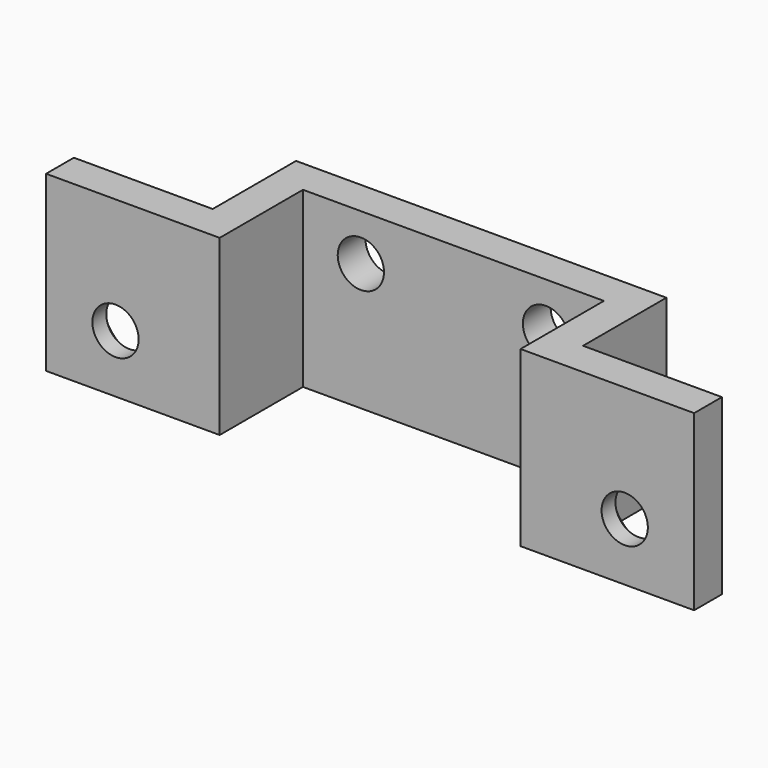
from build123d import *

# Parameters (mm, degrees)
F1_DEPTH       = 15
F2_R           = 2
F3_DEPTH       = 25
F5_D           = 4
F5_CSINK_D     = 7
F5_CSINK_ANGLE = 90


with BuildPart() as f1:
    # F0 (on Top) → F1 (new body)
    with BuildSketch(Plane.XY):
        Polygon((0, 3), (0, 0), (15, 0), (15, 9), (41, 9), (41, 0), (56, 0), (56, 3), (44, 3), (44, 12), (12, 12), (12, 3), align=None)
    extrude(amount=F1_DEPTH)

    # F2 (on face) → F3 (cut)
    with BuildSketch(Plane(origin=(0, 12, 0), x_dir=(-1, 0, 0), z_dir=(0, 1, 0))):
        with Locations((-36, 11)):
            Circle(F2_R)
        with Locations((-36, 11)):
            Circle(F2_R)
        with Locations((-20, 11)):
            Circle(F2_R)
        with Locations((-20, 11)):
            Circle(F2_R)
    extrude(amount=-F3_DEPTH, mode=Mode.SUBTRACT)

    # F5 (through all)
    with Locations(Plane(origin=(0, 3, 0), x_dir=(-1, 0, 0), z_dir=(0, 1, 0))):
        with Locations((-6, 5), (-50, 5)):
            CounterSinkHole(F5_D / 2, F5_CSINK_D / 2, counter_sink_angle=F5_CSINK_ANGLE)


solid = f1.part
